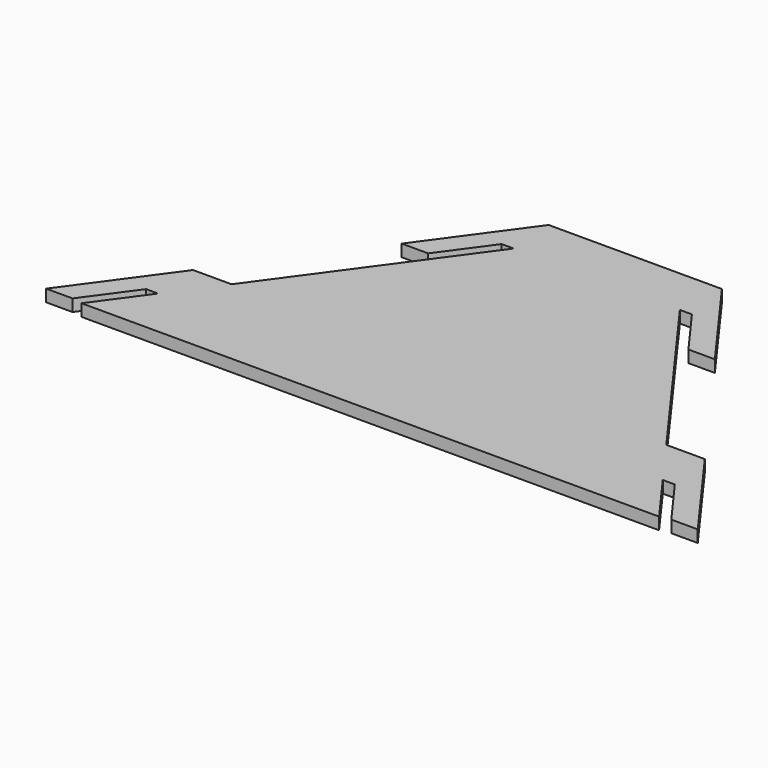
from build123d import *

# Parameters (mm, degrees)
F1_DEPTH = 1.5875


with BuildPart() as f1:
    # F0 (on Top) → F1 (new body)
    with BuildSketch(Plane.XY):
        Polygon((38.1, 43.700126), (31.75, 43.700126), (26.67, 43.700126), (17.44291, 31.000126), (20.93541, 31.000126), (25.548955, 37.350126), (27.136455, 37.350126), (9.420442, 12.966126), (4.340442, 12.966126), (-4.886648, 0.266126), (-1.394148, 0.266126), (3.219397, 6.616126), (4.806897, 6.616126), (0, 0), (38.1, 0), (76.2, 0), (71.393103, 6.616126), (72.980603, 6.616126), (77.594148, 0.266126), (81.086648, 0.266126), (71.859558, 12.966126), (66.779558, 12.966126), (49.063545, 37.350126), (50.651045, 37.350126), (55.26459, 31.000126), (58.75709, 31.000126), (49.53, 43.700126), (44.45, 43.700126), align=None)
    extrude(amount=F1_DEPTH)


solid = f1.part
